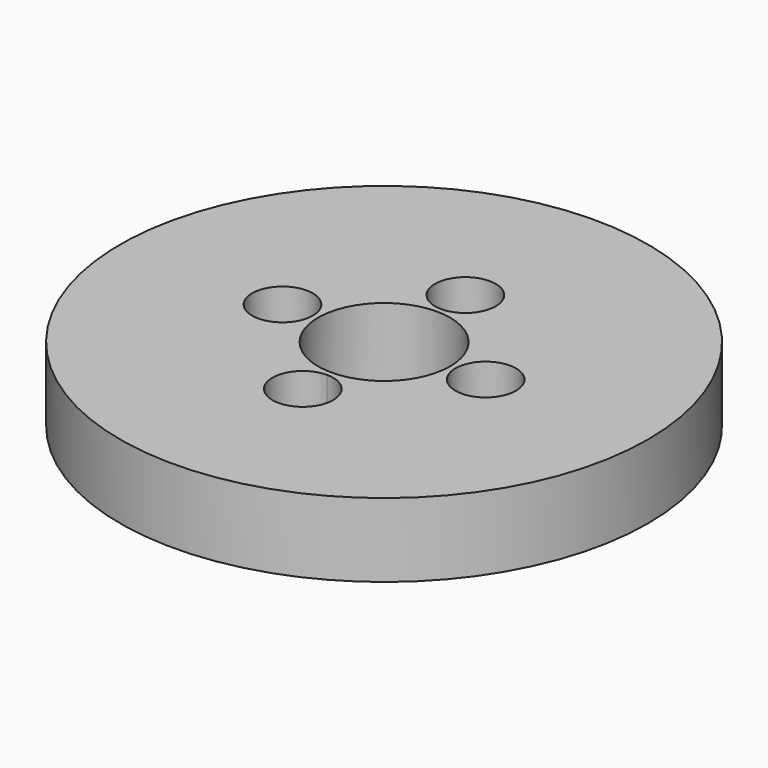
from build123d import *

# Parameters (mm, degrees)
F0_R     = 25.4
F0_R_2   = 6.35
F1_DEPTH = 7.112
F2_R     = 2.921
F3_DEPTH = 25.4
F4_R     = 3.181952
F4_R_2   = 1.778
F4_R_3   = 3.147606
F4_R_4   = 3.161985
F4_R_5   = 3.109144
F5_DEPTH = 3.302


with BuildPart() as f1:
    # F0 (on Top) → F1 (new body)
    with BuildSketch(Plane.XY):
        with Locations((-1.887769, 2.777323)):
            Circle(F0_R)
        with Locations((-1.887769, 2.777323)):
            Circle(F0_R_2, mode=Mode.SUBTRACT)
    extrude(amount=F1_DEPTH)

    # F2 (on face) → F3 (cut)
    with BuildSketch(Plane.XY.offset(7.112)):
        with BuildLine():
            ThreePointArc((1.033231, 12.556323), (-3.953228, 14.621782), (-1.887769, 9.635323))
            ThreePointArc((-1.887769, 9.635323), (0.17769, 10.490864), (1.033231, 12.556323))
        make_face()
        with BuildLine():
            ThreePointArc((1.033231, -7.001677), (0.17769, -4.936218), (-1.887769, -4.080677))
            ThreePointArc((-1.887769, -4.080677), (-3.953228, -9.067136), (1.033231, -7.001677))
        make_face()
        with Locations((-11.666769, 2.777323)):
            Circle(F2_R)
        with BuildLine():
            ThreePointArc((10.812231, 2.777323), (7.891231, 5.698323), (4.970231, 2.777323))
            ThreePointArc((4.970231, 2.777323), (7.891231, -0.143677), (10.812231, 2.777323))
        make_face()
    extrude(amount=-F3_DEPTH, mode=Mode.SUBTRACT)

    # F4 (on face) → F5 (join)
    with BuildSketch(Plane(origin=(0, 0, 0), x_dir=(1, 0, 0), z_dir=(0, 0, -1))):
        with Locations((-1.887769, 7.001677)):
            Circle(F4_R)
        with Locations((-1.887769, 7.001677)):
            Circle(F4_R_2, mode=Mode.SUBTRACT)
        with Locations((7.891231, -2.777323)):
            Circle(F4_R_3)
        with Locations((7.891231, -2.777323)):
            Circle(F4_R_2, mode=Mode.SUBTRACT)
        with Locations((-1.887769, -12.556323)):
            Circle(F4_R_4)
        with Locations((-1.887769, -12.556323)):
            Circle(F4_R_2, mode=Mode.SUBTRACT)
        with Locations((-11.666769, -2.777323)):
            Circle(F4_R_5)
        with Locations((-11.666769, -2.777323)):
            Circle(F4_R_2, mode=Mode.SUBTRACT)
    extrude(amount=-F5_DEPTH)


solid = f1.part
